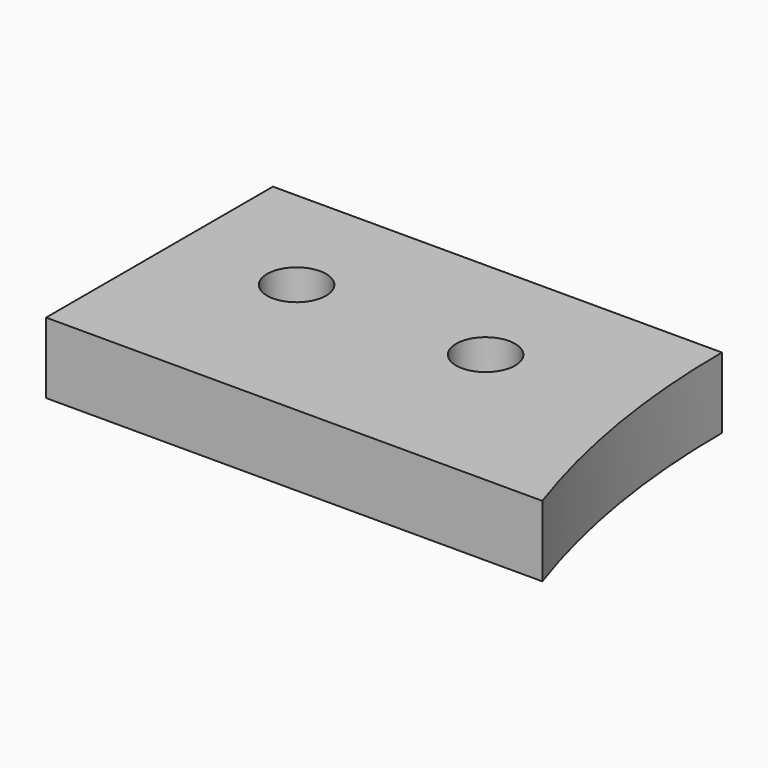
from build123d import *

# Parameters (mm, degrees)
CYLINDER907_R     = 2.5
CYLINDER907_DEPTH = 20
CYLINDER908_R     = 2.5
CYLINDER908_DEPTH = 20
CYLINDER905_R     = 74
CYLINDER905_DEPTH = 10
BOX431_W          = 51
BOX431_H          = 24
BOX431_DEPTH      = 6


with BuildPart() as obj1:
    # Cylinder907 → Cylinder907 (new body)
    with BuildSketch(Plane(origin=(-86, -10, 66), x_dir=(1, 0, 0), z_dir=(0, 0, 1))):
        Circle(CYLINDER907_R)
    extrude(amount=CYLINDER907_DEPTH)


with BuildPart() as compound498:
    # Cylinder908 → Cylinder908 (new body)
    with BuildSketch(Plane(origin=(-102, -10, 66), x_dir=(1, 0, 0), z_dir=(0, 0, 1))):
        Circle(CYLINDER908_R)
    extrude(amount=CYLINDER908_DEPTH)

    # Compound498: union obj1
    add(obj1.part)


with BuildPart() as obj2:
    # Cylinder905 → Cylinder905 (new body)
    with BuildSketch(Plane.XY.offset(72)):
        Circle(CYLINDER905_R)
    extrude(amount=CYLINDER905_DEPTH)


with BuildPart() as cut407:
    # Box431 → Box431 (new body)
    with BuildSketch(Plane(origin=(-112, -24, 76), x_dir=(1, 0, 0), z_dir=(0, 0, 1))):
        with Locations((25.5, 12)):
            Rectangle(BOX431_W, BOX431_H)
    extrude(amount=BOX431_DEPTH)

    # Cut408: cut obj2
    add(obj2.part, mode=Mode.SUBTRACT)

    # Cut407: cut Compound498
    add(compound498.part, mode=Mode.SUBTRACT)


solid = cut407.part
